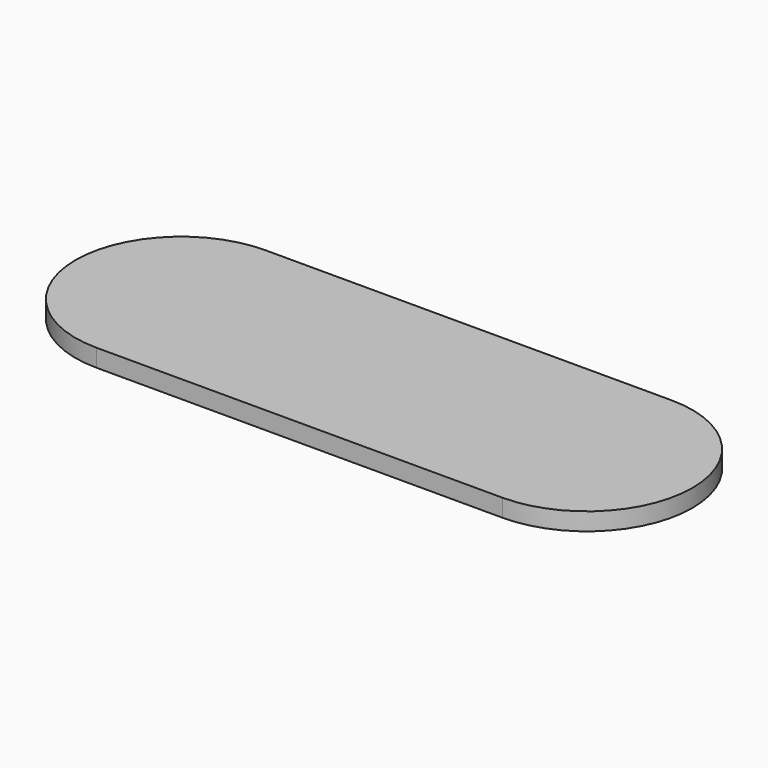
from build123d import *

# Parameters (mm, degrees)
PAD_DEPTH = 5


with BuildPart() as part:
    # Sketch (on Sketch) → Pad (new body)
    with BuildSketch(Plane.XY):
        with BuildLine():
            ThreePointArc((145, 0), (174.926781, 29.926782), (145, 59.853563))
            Line((29.99992, 59.853563), (145, 59.853563))
            ThreePointArc((29.99992, 59.853563), (0.073232, 29.926742), (30, 0))
            Line((30, 0), (145, 0))
        make_face()
    extrude(amount=PAD_DEPTH)


solid = part.part
